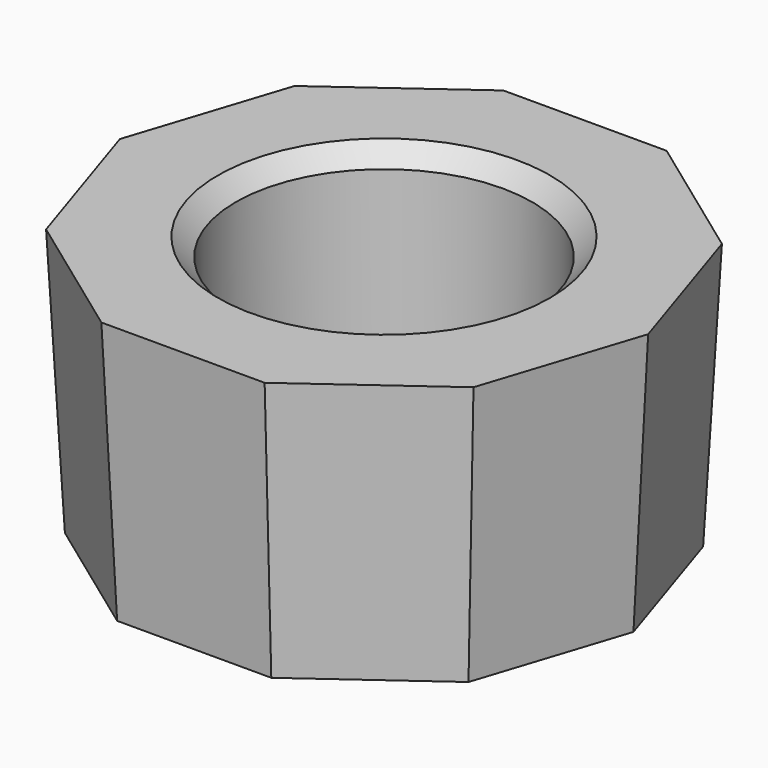
from build123d import *

# Parameters (mm, degrees)
F1_DEPTH = 4.5
F1_TAPER = -3
F2_R     = 2.5
F3_DEPTH = 25
F4_SIZE  = 0.3


with BuildPart() as f1:
    # F0 (on Top) → F1 (new body)
    with BuildSketch(Plane.XY):
        Polygon((-1.2996787849, -4), (1.2996787849, -4), (3.4026032334, -2.472135955), (4.205848897, 0), (3.4026032334, 2.472135955), (1.2996787849, 4), (-1.2996787849, 4), (-3.4026032334, 2.472135955), (-4.205848897, 0), (-3.4026032334, -2.472135955), align=None)
    extrude(amount=F1_DEPTH, taper=F1_TAPER)

    # F2 (on face) → F3 (cut)
    with BuildSketch(Plane(origin=(0, 0, 0), x_dir=(1, 0, 0), z_dir=(0, 0, -1))):
        Circle(F2_R)
    extrude(amount=-F3_DEPTH, mode=Mode.SUBTRACT)

    # F4
    f4_edges = [f1.edges().sort_by_distance(p)[0] for p in [
        (-2.5, 0, 0),
        (-2.5, 0, 4.5),
    ]]
    chamfer(f4_edges, length=F4_SIZE)


solid = f1.part
